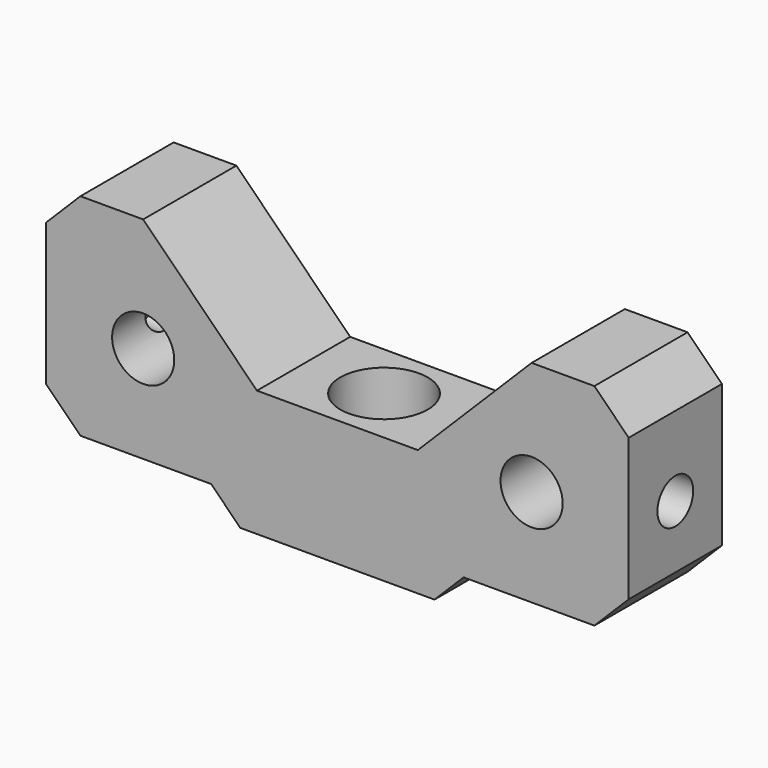
from build123d import *

# Parameters (mm, degrees)
SKETCH010_R         = 3.2
PAD003_DEPTH        = 12
HOLE004_D           = 6.6
HOLE004_DEPTH       = 25
HOLE004_CBORE_D     = 9
HOLE004_CBORE_DEPTH = 6.1
HOLE005_D           = 3.4
HOLE005_DEPTH       = 10
HOLE005_CBORE_D     = 4.6
HOLE005_CBORE_DEPTH = 5
HOLE005_TIPS_R      = 1.7
HOLE006_D           = 3.4
HOLE006_DEPTH       = 10
HOLE006_CBORE_D     = 4.6
HOLE006_CBORE_DEPTH = 5


with BuildPart() as part:
    # Sketch010 (on DatumPlane) → Pad003 (new body)
    with BuildSketch(Plane.XZ.offset(20)):
        Polygon((30, -11.819805), (30, -26.464466), (26.464466, -30), (13, -30), (10, -33), (-10, -33), (-13, -30), (-26.464466, -30), (-30, -26.464466), (-30, -11.819805), (-26.464466, -8.284271), (-20, -8.284271), (-8.284271, -20), (8.284271, -20), (20, -8.284271), (26.464466, -8.284271), align=None)
        with Locations((20, -20)):
            Circle(SKETCH010_R, mode=Mode.SUBTRACT)
        with Locations((-20, -20)):
            Circle(SKETCH010_R, mode=Mode.SUBTRACT)
    extrude(amount=PAD003_DEPTH)

    # Hole004
    with Locations(Plane.XY.offset(-20)):
        with Locations((0, -26)):
            CounterBoreHole(HOLE004_D / 2, HOLE004_CBORE_D / 2, HOLE004_CBORE_DEPTH, depth=HOLE004_DEPTH)

    # Hole005
    with Locations(Plane.YZ.offset(30)):
        with Locations((-26, -20)):
            CounterBoreHole(HOLE005_D / 2, HOLE005_CBORE_D / 2, HOLE005_CBORE_DEPTH, depth=HOLE005_DEPTH)

    # Hole005 tips → Hole005 tip 1 section 0
    with BuildSketch(Plane.YZ.offset(20), mode=Mode.PRIVATE) as hole005_tip_1_s0:
        with Locations((-26, -20)):
            Circle(HOLE005_TIPS_R)
    loft([hole005_tip_1_s0.sketch, Vertex(18.978537, -26, -20)], mode=Mode.SUBTRACT)

    # Hole006
    with Locations(Plane(origin=(-30, 0, 0), x_dir=(0, 1, 0), z_dir=(-1, 0, 0))):
        with Locations((-26, 20)):
            CounterBoreHole(HOLE006_D / 2, HOLE006_CBORE_D / 2, HOLE006_CBORE_DEPTH, depth=HOLE006_DEPTH)


solid = part.part
